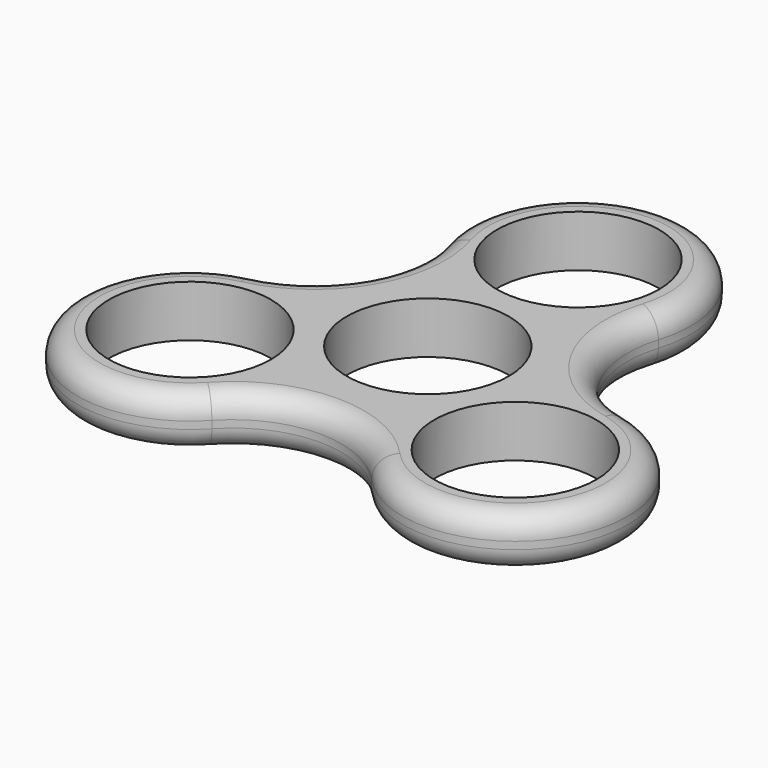
from build123d import *

# Parameters (mm, degrees)
F0_R     = 10.9855
F1_DEPTH = 7
F2_R     = 3


with BuildPart() as f1:
    # F0 (on Top) → F1 (new body)
    with BuildSketch(Plane.XY):
        with BuildLine():
            ThreePointArc((25.381119, 2.1379), (15.840285, 9.145393), (14.542035, 20.911744))
            ThreePointArc((14.542035, 20.911744), (0, 40.711), (-14.542035, 20.911744))
            ThreePointArc((-14.542035, 20.911744), (-15.840285, 9.145393), (-25.381119, 2.1379))
            ThreePointArc((-25.381119, 2.1379), (-35.25676, -20.3555), (-10.839084, -23.049644))
            ThreePointArc((-10.839084, -23.049644), (0, -18.290786), (10.839084, -23.049644))
            ThreePointArc((10.839084, -23.049644), (35.25676, -20.3555), (25.381119, 2.1379))
        make_face()
        with Locations((-22.058533, -12.7355)):
            Circle(F0_R, mode=Mode.SUBTRACT)
        with Locations((22.058533, -12.7355)):
            Circle(F0_R, mode=Mode.SUBTRACT)
        Circle(F0_R, mode=Mode.SUBTRACT)
        with Locations((0, 25.471)):
            Circle(F0_R, mode=Mode.SUBTRACT)
    extrude(amount=F1_DEPTH)

    # F2
    f2_edges = [f1.edges().sort_by_distance(p)[0] for p in [
        (25.381119, 2.1379, 3.5),
        (14.542035, 20.911744, 3.5),
        (15.840285, 9.145393, 0),
        (15.840285, 9.145393, 7),
    ]]
    fillet(f2_edges, radius=F2_R)


solid = f1.part
